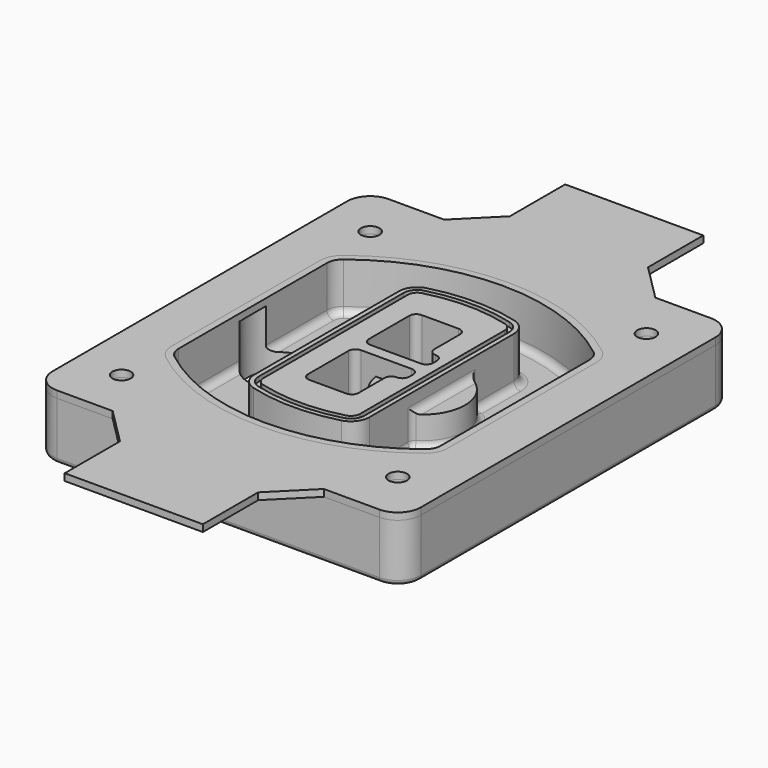
from build123d import *

# Parameters (mm, degrees)
F0_R      = 4
F1_DEPTH  = 25
F2_DEPTH  = 3
F3_DEPTH  = 18
F5_DEPTH  = 21
F6_DEPTH  = 2
F8_DEPTH  = 20
F9_DEPTH  = 16
F10_DEPTH = 25
F7_R      = 6
F7_R_2    = 4
F11_DEPTH = 6
F13_DEPTH = 9
F14_R     = 3
F15_R     = 2
F16_R     = 4
F17_DEPTH = 3


with BuildPart() as f1:
    # F0 (on Top) → F1 (new body)
    with BuildSketch(Plane.XY):
        with BuildLine():
            ThreePointArc((-80, -80), (-77.0710678119, -87.0710678119), (-70, -90))
            Line((-70, -90), (70, -90))
            ThreePointArc((70, -90), (77.0710678119, -87.0710678119), (80, -80))
            Line((80, -80), (80, 80))
            ThreePointArc((80, 80), (77.0710678119, 87.0710678119), (70, 90))
            Line((70, 90), (-70, 90))
            ThreePointArc((-70, 90), (-77.0710678119, 87.0710678119), (-80, 80))
            Line((-80, 80), (-80, -80))
        make_face()
        with Locations((-60, -67.5)):
            Circle(F0_R, mode=Mode.SUBTRACT)
        with Locations((60, -67.5)):
            Circle(F0_R, mode=Mode.SUBTRACT)
        with Locations((-60, 67.5)):
            Circle(F0_R, mode=Mode.SUBTRACT)
        with BuildLine():
            ThreePointArc((-64, 40.2934422872), (-62.5820384798, 46.4328484224), (-58.6153846154, 51.3286200352))
            ThreePointArc((-58.6153846154, 51.3286200352), (0, 71.5), (58.6153846154, 51.3286200352))
            ThreePointArc((58.6153846154, 51.3286200352), (62.5820384798, 46.4328484224), (64, 40.2934422872))
            Line((64, 40.2934422872), (64, -40.2934422872))
            ThreePointArc((64, -40.2934422872), (62.5820384798, -46.4328484224), (58.6153846154, -51.3286200352))
            ThreePointArc((58.6153846154, -51.3286200352), (0, -71.5), (-58.6153846154, -51.3286200352))
            ThreePointArc((-58.6153846154, -51.3286200352), (-62.5820384798, -46.4328484224), (-64, -40.2934422872))
            Line((-64, -40.2934422872), (-64, 40.2934422872))
        make_face(mode=Mode.SUBTRACT)
        with Locations((60, 67.5)):
            Circle(F0_R, mode=Mode.SUBTRACT)
        with BuildLine():
            ThreePointArc((58.6153846154, 51.3286200352), (0, 71.5), (-58.6153846154, 51.3286200352))
            ThreePointArc((-58.6153846154, 51.3286200352), (-62.5820384798, 46.4328484224), (-64, 40.2934422872))
            Line((-64, 40.2934422872), (-64, -40.2934422872))
            ThreePointArc((-64, -40.2934422872), (-62.5820384798, -46.4328484224), (-58.6153846154, -51.3286200352))
            ThreePointArc((-58.6153846154, -51.3286200352), (0, -71.5), (58.6153846154, -51.3286200352))
            ThreePointArc((58.6153846154, -51.3286200352), (62.5820384798, -46.4328484224), (64, -40.2934422872))
            Line((64, -40.2934422872), (64, 40.2934422872))
            ThreePointArc((64, 40.2934422872), (62.5820384798, 46.4328484224), (58.6153846154, 51.3286200352))
        make_face()
        with BuildLine():
            Line((-60, -40.2934422872), (-60, 40.2934422872))
            ThreePointArc((-60, 40.2934422872), (-58.9871703427, 44.6787323838), (-56.1538461538, 48.1757121072))
            ThreePointArc((-56.1538461538, 48.1757121072), (0, 67.5), (56.1538461538, 48.1757121072))
            ThreePointArc((56.1538461538, 48.1757121072), (58.9871703427, 44.6787323838), (60, 40.2934422872))
            Line((60, 40.2934422872), (60, -40.2934422872))
            ThreePointArc((60, -40.2934422872), (58.9871703427, -44.6787323838), (56.1538461538, -48.1757121072))
            ThreePointArc((56.1538461538, -48.1757121072), (0, -67.5), (-56.1538461538, -48.1757121072))
            ThreePointArc((-56.1538461538, -48.1757121072), (-58.9871703427, -44.6787323838), (-60, -40.2934422872))
        make_face(mode=Mode.SUBTRACT)
        with BuildLine():
            ThreePointArc((-56.1538461538, 48.1757121072), (-58.9871703427, 44.6787323838), (-60, 40.2934422872))
            Line((-60, 40.2934422872), (-60, -40.2934422872))
            ThreePointArc((-60, -40.2934422872), (-58.9871703427, -44.6787323838), (-56.1538461538, -48.1757121072))
            ThreePointArc((-56.1538461538, -48.1757121072), (0, -67.5), (56.1538461538, -48.1757121072))
            ThreePointArc((56.1538461538, -48.1757121072), (58.9871703427, -44.6787323838), (60, -40.2934422872))
            Line((60, -40.2934422872), (60, 40.2934422872))
            ThreePointArc((60, 40.2934422872), (58.9871703427, 44.6787323838), (56.1538461538, 48.1757121072))
            ThreePointArc((56.1538461538, 48.1757121072), (0, 67.5), (-56.1538461538, 48.1757121072))
        make_face()
        with BuildLine():
            ThreePointArc((54.3076923077, 45.8110311612), (56.2910192399, 43.3631453548), (57, 40.2934422872))
            Line((57, 40.2934422872), (57, -40.2934422872))
            ThreePointArc((57, -40.2934422872), (56.2910192399, -43.3631453548), (54.3076923077, -45.8110311612))
            ThreePointArc((54.3076923077, -45.8110311612), (0, -64.5), (-54.3076923077, -45.8110311612))
            ThreePointArc((-54.3076923077, -45.8110311612), (-56.2910192399, -43.3631453548), (-57, -40.2934422872))
            Line((-57, -40.2934422872), (-57, 40.2934422872))
            ThreePointArc((-57, 40.2934422872), (-56.2910192399, 43.3631453548), (-54.3076923077, 45.8110311612))
            ThreePointArc((-54.3076923077, 45.8110311612), (0, 64.5), (54.3076923077, 45.8110311612))
        make_face(mode=Mode.SUBTRACT)
        with BuildLine():
            Line((57, -40.2934422872), (57, 40.2934422872))
            ThreePointArc((57, 40.2934422872), (56.2910192399, 43.3631453548), (54.3076923077, 45.8110311612))
            ThreePointArc((54.3076923077, 45.8110311612), (0, 64.5), (-54.3076923077, 45.8110311612))
            ThreePointArc((-54.3076923077, 45.8110311612), (-56.2910192399, 43.3631453548), (-57, 40.2934422872))
            Line((-57, 40.2934422872), (-57, -40.2934422872))
            ThreePointArc((-57, -40.2934422872), (-56.2910192399, -43.3631453548), (-54.3076923077, -45.8110311612))
            ThreePointArc((-54.3076923077, -45.8110311612), (0, -64.5), (54.3076923077, -45.8110311612))
            ThreePointArc((54.3076923077, -45.8110311612), (56.2910192399, -43.3631453548), (57, -40.2934422872))
        make_face()
    extrude(amount=-F1_DEPTH)

    # F0 (on Top) → F2 (join)
    with BuildSketch(Plane.XY):
        with BuildLine():
            ThreePointArc((-56.1538461538, 48.1757121072), (-58.9871703427, 44.6787323838), (-60, 40.2934422872))
            Line((-60, 40.2934422872), (-60, -40.2934422872))
            ThreePointArc((-60, -40.2934422872), (-58.9871703427, -44.6787323838), (-56.1538461538, -48.1757121072))
            ThreePointArc((-56.1538461538, -48.1757121072), (0, -67.5), (56.1538461538, -48.1757121072))
            ThreePointArc((56.1538461538, -48.1757121072), (58.9871703427, -44.6787323838), (60, -40.2934422872))
            Line((60, -40.2934422872), (60, 40.2934422872))
            ThreePointArc((60, 40.2934422872), (58.9871703427, 44.6787323838), (56.1538461538, 48.1757121072))
            ThreePointArc((56.1538461538, 48.1757121072), (0, 67.5), (-56.1538461538, 48.1757121072))
        make_face()
        with BuildLine():
            ThreePointArc((54.3076923077, 45.8110311612), (56.2910192399, 43.3631453548), (57, 40.2934422872))
            Line((57, 40.2934422872), (57, -40.2934422872))
            ThreePointArc((57, -40.2934422872), (56.2910192399, -43.3631453548), (54.3076923077, -45.8110311612))
            ThreePointArc((54.3076923077, -45.8110311612), (0, -64.5), (-54.3076923077, -45.8110311612))
            ThreePointArc((-54.3076923077, -45.8110311612), (-56.2910192399, -43.3631453548), (-57, -40.2934422872))
            Line((-57, -40.2934422872), (-57, 40.2934422872))
            ThreePointArc((-57, 40.2934422872), (-56.2910192399, 43.3631453548), (-54.3076923077, 45.8110311612))
            ThreePointArc((-54.3076923077, 45.8110311612), (0, 64.5), (54.3076923077, 45.8110311612))
        make_face(mode=Mode.SUBTRACT)
    extrude(amount=F2_DEPTH)

    # F0 (on Top) → F3 (cut)
    with BuildSketch(Plane.XY):
        with BuildLine():
            Line((57, -40.2934422872), (57, 40.2934422872))
            ThreePointArc((57, 40.2934422872), (56.2910192399, 43.3631453548), (54.3076923077, 45.8110311612))
            ThreePointArc((54.3076923077, 45.8110311612), (0, 64.5), (-54.3076923077, 45.8110311612))
            ThreePointArc((-54.3076923077, 45.8110311612), (-56.2910192399, 43.3631453548), (-57, 40.2934422872))
            Line((-57, 40.2934422872), (-57, -40.2934422872))
            ThreePointArc((-57, -40.2934422872), (-56.2910192399, -43.3631453548), (-54.3076923077, -45.8110311612))
            ThreePointArc((-54.3076923077, -45.8110311612), (0, -64.5), (54.3076923077, -45.8110311612))
            ThreePointArc((54.3076923077, -45.8110311612), (56.2910192399, -43.3631453548), (57, -40.2934422872))
        make_face()
    extrude(amount=-F3_DEPTH, mode=Mode.SUBTRACT)

    # F4 (on face) → F5 (join, through all)
    with BuildSketch(Plane.XY.offset(3)):
        with BuildLine():
            ThreePointArc((-25, -39.2465276821), (-23.3511545998, -44.1109737193), (-19.0842911877, -46.9702398883))
            ThreePointArc((-19.0842911877, -46.9702398883), (0, -49.5), (19.0842911877, -46.9702398883))
            ThreePointArc((19.0842911877, -46.9702398883), (23.3511545998, -44.1109737193), (25, -39.2465276821))
            Line((25, -39.2465276821), (25, 39.2465276821))
            ThreePointArc((25, 39.2465276821), (23.3511545998, 44.1109737193), (19.0842911877, 46.9702398883))
            ThreePointArc((19.0842911877, 46.9702398883), (0, 49.5), (-19.0842911877, 46.9702398883))
            ThreePointArc((-19.0842911877, 46.9702398883), (-23.3511545998, 44.1109737193), (-25, 39.2465276821))
            Line((-25, 39.2465276821), (-25, -39.2465276821))
        make_face()
        with BuildLine():
            ThreePointArc((18.5632183908, 45.0393118368), (21.7633659499, 42.89486221), (23, 39.2465276821))
            Line((23, 39.2465276821), (23, -39.2465276821))
            ThreePointArc((23, -39.2465276821), (21.7633659499, -42.89486221), (18.5632183908, -45.0393118368))
            ThreePointArc((18.5632183908, -45.0393118368), (0, -47.5), (-18.5632183908, -45.0393118368))
            ThreePointArc((-18.5632183908, -45.0393118368), (-21.7633659499, -42.89486221), (-23, -39.2465276821))
            Line((-23, -39.2465276821), (-23, 39.2465276821))
            ThreePointArc((-23, 39.2465276821), (-21.7633659499, 42.89486221), (-18.5632183908, 45.0393118368))
            ThreePointArc((-18.5632183908, 45.0393118368), (0, 47.5), (18.5632183908, 45.0393118368))
        make_face(mode=Mode.SUBTRACT)
        with BuildLine():
            Line((23, -39.2465276821), (23, 39.2465276821))
            ThreePointArc((23, 39.2465276821), (21.7633659499, 42.89486221), (18.5632183908, 45.0393118368))
            ThreePointArc((18.5632183908, 45.0393118368), (0, 47.5), (-18.5632183908, 45.0393118368))
            ThreePointArc((-18.5632183908, 45.0393118368), (-21.7633659499, 42.89486221), (-23, 39.2465276821))
            Line((-23, 39.2465276821), (-23, -39.2465276821))
            ThreePointArc((-23, -39.2465276821), (-21.7633659499, -42.89486221), (-18.5632183908, -45.0393118368))
            ThreePointArc((-18.5632183908, -45.0393118368), (0, -47.5), (18.5632183908, -45.0393118368))
            ThreePointArc((18.5632183908, -45.0393118368), (21.7633659499, -42.89486221), (23, -39.2465276821))
        make_face()
        with BuildLine():
            ThreePointArc((18.0421455939, 43.1083837852), (20.1755772999, 41.6787507007), (21, 39.2465276821))
            Line((21, 39.2465276821), (21, -39.2465276821))
            ThreePointArc((21, -39.2465276821), (20.1755772999, -41.6787507007), (18.0421455939, -43.1083837852))
            ThreePointArc((18.0421455939, -43.1083837852), (0, -45.5), (-18.0421455939, -43.1083837852))
            ThreePointArc((-18.0421455939, -43.1083837852), (-20.1755772999, -41.6787507007), (-21, -39.2465276821))
            Line((-21, -39.2465276821), (-21, 39.2465276821))
            ThreePointArc((-21, 39.2465276821), (-20.1755772999, 41.6787507007), (-18.0421455939, 43.1083837852))
            ThreePointArc((-18.0421455939, 43.1083837852), (0, 45.5), (18.0421455939, 43.1083837852))
        make_face(mode=Mode.SUBTRACT)
        with BuildLine():
            Line((21, -39.2465276821), (21, 39.2465276821))
            ThreePointArc((21, 39.2465276821), (20.1755772999, 41.6787507007), (18.0421455939, 43.1083837852))
            ThreePointArc((18.0421455939, 43.1083837852), (0, 45.5), (-18.0421455939, 43.1083837852))
            ThreePointArc((-18.0421455939, 43.1083837852), (-20.1755772999, 41.6787507007), (-21, 39.2465276821))
            Line((-21, 39.2465276821), (-21, -39.2465276821))
            ThreePointArc((-21, -39.2465276821), (-20.1755772999, -41.6787507007), (-18.0421455939, -43.1083837852))
            ThreePointArc((-18.0421455939, -43.1083837852), (0, -45.5), (18.0421455939, -43.1083837852))
            ThreePointArc((18.0421455939, -43.1083837852), (20.1755772999, -41.6787507007), (21, -39.2465276821))
        make_face()
        with BuildLine():
            Line((-8, -2.5), (14, -2.5))
            ThreePointArc((14, -2.5), (16.1213203436, -3.3786796564), (17, -5.5))
            Line((17, -5.5), (17, -7.5))
            ThreePointArc((17, -7.5), (16.1213203436, -9.6213203436), (14, -10.5))
            ThreePointArc((14, -10.5), (11.8786796564, -11.3786796564), (11, -13.5))
            Line((11, -13.5), (11, -27.5))
            ThreePointArc((11, -27.5), (10.1213203436, -29.6213203436), (8, -30.5))
            Line((8, -30.5), (-8, -30.5))
            ThreePointArc((-8, -30.5), (-10.1213203436, -29.6213203436), (-11, -27.5))
            Line((-11, -27.5), (-11, -5.5))
            ThreePointArc((-11, -5.5), (-10.1213203436, -3.3786796564), (-8, -2.5))
        make_face(mode=Mode.SUBTRACT)
        with BuildLine():
            ThreePointArc((-8, 2.5), (-10.1213203436, 3.3786796564), (-11, 5.5))
            Line((-11, 5.5), (-11, 27.5))
            ThreePointArc((-11, 27.5), (-10.1213203436, 29.6213203436), (-8, 30.5))
            Line((-8, 30.5), (8, 30.5))
            ThreePointArc((8, 30.5), (10.1213203436, 29.6213203436), (11, 27.5))
            Line((11, 27.5), (11, 13.5))
            ThreePointArc((11, 13.5), (11.8786796564, 11.3786796564), (14, 10.5))
            ThreePointArc((14, 10.5), (16.1213203436, 9.6213203436), (17, 7.5))
            Line((17, 7.5), (17, 5.5))
            ThreePointArc((17, 5.5), (16.1213203436, 3.3786796564), (14, 2.5))
            Line((14, 2.5), (-8, 2.5))
        make_face(mode=Mode.SUBTRACT)
    extrude(amount=-F5_DEPTH)

    # F4 (on face) → F6 (cut)
    with BuildSketch(Plane.XY.offset(3)):
        with BuildLine():
            Line((23, -39.2465276821), (23, 39.2465276821))
            ThreePointArc((23, 39.2465276821), (21.7633659499, 42.89486221), (18.5632183908, 45.0393118368))
            ThreePointArc((18.5632183908, 45.0393118368), (0, 47.5), (-18.5632183908, 45.0393118368))
            ThreePointArc((-18.5632183908, 45.0393118368), (-21.7633659499, 42.89486221), (-23, 39.2465276821))
            Line((-23, 39.2465276821), (-23, -39.2465276821))
            ThreePointArc((-23, -39.2465276821), (-21.7633659499, -42.89486221), (-18.5632183908, -45.0393118368))
            ThreePointArc((-18.5632183908, -45.0393118368), (0, -47.5), (18.5632183908, -45.0393118368))
            ThreePointArc((18.5632183908, -45.0393118368), (21.7633659499, -42.89486221), (23, -39.2465276821))
        make_face()
        with BuildLine():
            ThreePointArc((18.0421455939, 43.1083837852), (20.1755772999, 41.6787507007), (21, 39.2465276821))
            Line((21, 39.2465276821), (21, -39.2465276821))
            ThreePointArc((21, -39.2465276821), (20.1755772999, -41.6787507007), (18.0421455939, -43.1083837852))
            ThreePointArc((18.0421455939, -43.1083837852), (0, -45.5), (-18.0421455939, -43.1083837852))
            ThreePointArc((-18.0421455939, -43.1083837852), (-20.1755772999, -41.6787507007), (-21, -39.2465276821))
            Line((-21, -39.2465276821), (-21, 39.2465276821))
            ThreePointArc((-21, 39.2465276821), (-20.1755772999, 41.6787507007), (-18.0421455939, 43.1083837852))
            ThreePointArc((-18.0421455939, 43.1083837852), (0, 45.5), (18.0421455939, 43.1083837852))
        make_face(mode=Mode.SUBTRACT)
    extrude(amount=-F6_DEPTH, mode=Mode.SUBTRACT)

    # F7 (on face) → F8 (join)
    with BuildSketch(Plane(origin=(0, 0, -25), x_dir=(1, 0, 0), z_dir=(0, 0, -1))):
        with BuildLine():
            ThreePointArc((3.28842436, 0), (16.7567035675, 13.4682792075), (30.224982775, 0))
            Line((30.224982775, 0), (35.224982775, 0))
            ThreePointArc((35.224982775, 0), (16.7567035675, 18.4682792075), (-1.71157564, 0))
            Line((-1.71157564, 0), (3.28842436, 0))
        make_face()
        with BuildLine():
            Line((3.28842436, 0), (30.224982775, 0))
            ThreePointArc((30.224982775, 0), (16.7567035675, 13.4682792075), (3.28842436, 0))
        make_face()
        with BuildLine():
            ThreePointArc((3.28842436, 0), (16.7567035675, -13.4682792075), (30.224982775, 0))
            Line((30.224982775, 0), (3.28842436, 0))
        make_face()
        with BuildLine():
            Line((35.224982775, 0), (30.224982775, 0))
            ThreePointArc((30.224982775, 0), (16.7567035675, -13.4682792075), (3.28842436, 0))
            Line((3.28842436, 0), (-1.71157564, 0))
            ThreePointArc((-1.71157564, 0), (16.7567035675, -18.4682792075), (35.224982775, 0))
        make_face()
    extrude(amount=-F8_DEPTH)

    # F7 (on face) → F9 (cut)
    with BuildSketch(Plane(origin=(0, 0, -25), x_dir=(1, 0, 0), z_dir=(0, 0, -1))):
        with BuildLine():
            Line((3.28842436, 0), (30.224982775, 0))
            ThreePointArc((30.224982775, 0), (16.7567035675, 13.4682792075), (3.28842436, 0))
        make_face()
        with BuildLine():
            ThreePointArc((3.28842436, 0), (16.7567035675, -13.4682792075), (30.224982775, 0))
            Line((30.224982775, 0), (3.28842436, 0))
        make_face()
    extrude(amount=-F9_DEPTH, mode=Mode.SUBTRACT)

    # F7 (on face) → F10 (cut)
    with BuildSketch(Plane(origin=(0, 0, -25), x_dir=(1, 0, 0), z_dir=(0, 0, -1))):
        with BuildLine():
            Line((-59.0318229325, 0), (-32.0952645175, 0))
            ThreePointArc((-32.0952645175, 0), (-45.563543725, 13.4682792075), (-59.0318229325, 0))
        make_face()
        with BuildLine():
            ThreePointArc((-59.0318229325, 0), (-45.563543725, -13.4682792075), (-32.0952645175, 0))
            Line((-32.0952645175, 0), (-59.0318229325, 0))
        make_face()
    extrude(amount=-F10_DEPTH, mode=Mode.SUBTRACT)

    # F7 (on face) → F11 (cut)
    with BuildSketch(Plane(origin=(0, 0, -25), x_dir=(1, 0, 0), z_dir=(0, 0, -1))):
        with Locations((60, -67.5)):
            Circle(F7_R)
        with Locations((60, -67.5)):
            Circle(F7_R_2, mode=Mode.SUBTRACT)
        with Locations((60, -67.5)):
            Circle(F7_R)
        with Locations((60, -67.5)):
            Circle(F7_R_2, mode=Mode.SUBTRACT)
        with Locations((-60, -67.5)):
            Circle(F7_R)
        with Locations((-60, -67.5)):
            Circle(F7_R_2, mode=Mode.SUBTRACT)
        with Locations((-60, -67.5)):
            Circle(F7_R)
        with Locations((-60, -67.5)):
            Circle(F7_R_2, mode=Mode.SUBTRACT)
        with Locations((-60, 67.5)):
            Circle(F7_R)
        with Locations((-60, 67.5)):
            Circle(F7_R_2, mode=Mode.SUBTRACT)
        with Locations((-60, 67.5)):
            Circle(F7_R)
        with Locations((-60, 67.5)):
            Circle(F7_R_2, mode=Mode.SUBTRACT)
        with Locations((60, 67.5)):
            Circle(F7_R)
        with Locations((60, 67.5)):
            Circle(F7_R_2, mode=Mode.SUBTRACT)
        with Locations((60, 67.5)):
            Circle(F7_R)
        with Locations((60, 67.5)):
            Circle(F7_R_2, mode=Mode.SUBTRACT)
    extrude(amount=-F11_DEPTH, mode=Mode.SUBTRACT)

    # F12 (on face) → F13 (cut, through all)
    with BuildSketch(Plane(origin=(0, 0, -9), x_dir=(1, 0, 0), z_dir=(0, 0, -1))):
        with BuildLine():
            Line((11, 13.5), (11, 17.5481537753))
            ThreePointArc((11, 17.5481537753), (2.5696536419, 11.8239143813), (-1.5415842455, 2.5))
            Line((-1.5415842455, 2.5), (3.5224848595, 2.5))
            ThreePointArc((3.5224848595, 2.5), (6.1857188154, 8.3455872281), (11.2536447004, 12.2927168648))
            ThreePointArc((11.2536447004, 12.2927168648), (11.0640958889, 12.8831798879), (11, 13.5))
        make_face()
        with BuildLine():
            ThreePointArc((11.2536447004, -12.2927168648), (6.1857188154, -8.3455872281), (3.5224848595, -2.5))
            Line((3.5224848595, -2.5), (-1.5415842455, -2.5))
            ThreePointArc((-1.5415842455, -2.5), (2.5696536419, -11.8239143813), (11, -17.5481537753))
            Line((11, -17.5481537753), (11, -13.5))
            ThreePointArc((11, -13.5), (11.0640958889, -12.8831798879), (11.2536447004, -12.2927168648))
        make_face()
        with BuildLine():
            ThreePointArc((11.2536447004, 12.2927168648), (6.1857188154, 8.3455872281), (3.5224848595, 2.5))
            Line((3.5224848595, 2.5), (14, 2.5))
            ThreePointArc((14, 2.5), (16.1213203436, 3.3786796564), (17, 5.5))
            Line((17, 5.5), (17, 7.5))
            ThreePointArc((17, 7.5), (16.1213203436, 9.6213203436), (14, 10.5))
            ThreePointArc((14, 10.5), (12.3601599782, 10.9878446101), (11.2536447004, 12.2927168648))
        make_face()
        with BuildLine():
            Line((14, -2.5), (3.5224848595, -2.5))
            ThreePointArc((3.5224848595, -2.5), (6.1857188154, -8.3455872281), (11.2536447004, -12.2927168648))
            ThreePointArc((11.2536447004, -12.2927168648), (12.3601599782, -10.9878446101), (14, -10.5))
            ThreePointArc((14, -10.5), (16.1213203436, -9.6213203436), (17, -7.5))
            Line((17, -7.5), (17, -5.5))
            ThreePointArc((17, -5.5), (16.1213203436, -3.3786796564), (14, -2.5))
        make_face()
    extrude(amount=F13_DEPTH, mode=Mode.SUBTRACT)

    # F14
    f14_edges = [f1.edges().sort_by_distance(p)[0] for p in [
        (-57, -23.703476, -18),
        (-57, 23.703476, -18),
        (25, 0, -5),
        (25, 16.526506, -11.5),
        (25, -16.526506, -11.5),
        (25, -27.886517, -18),
        (35.224983, 0, -18),
    ]]
    fillet(f14_edges, radius=F14_R)

    # F15
    f15_edges = [f1.edges().sort_by_distance(p)[0] for p in [
        (0, -90, -25),
    ]]
    fillet(f15_edges, radius=F15_R)


with BuildPart() as f17:
    # F16 (on face) → F17 (new body, through all)
    with BuildSketch(Plane.XY):
        with BuildLine():
            Line((45.8578643763, 90), (-45.8578643763, 90))
            Line((-45.8578643763, 90), (-70, 90))
            ThreePointArc((-70, 90), (-77.0710678119, 87.0710678119), (-80, 80))
            Line((-80, 80), (-80, -80))
            ThreePointArc((-80, -80), (-77.0710678119, -87.0710678119), (-70, -90))
            Line((-70, -90), (-45.8578643763, -90))
            Line((-45.8578643763, -90), (45.8578643763, -90))
            Line((45.8578643763, -90), (70, -90))
            ThreePointArc((70, -90), (77.0710678119, -87.0710678119), (80, -80))
            Line((80, -80), (80, 80))
            ThreePointArc((80, 80), (77.0710678119, 87.0710678119), (70, 90))
            Line((70, 90), (45.8578643763, 90))
        make_face()
        with Locations((-60, -67.5)):
            Circle(F16_R, mode=Mode.SUBTRACT)
        with Locations((60, -67.5)):
            Circle(F16_R, mode=Mode.SUBTRACT)
        with Locations((-60, 67.5)):
            Circle(F16_R, mode=Mode.SUBTRACT)
        with BuildLine():
            ThreePointArc((-60, 40.2934422872), (-58.9871703427, 44.6787323838), (-56.1538461538, 48.1757121072))
            ThreePointArc((-56.1538461538, 48.1757121072), (0, 67.5), (56.1538461538, 48.1757121072))
            ThreePointArc((56.1538461538, 48.1757121072), (58.9871703427, 44.6787323838), (60, 40.2934422872))
            Line((60, 40.2934422872), (60, -40.2934422872))
            ThreePointArc((60, -40.2934422872), (58.9871703427, -44.6787323838), (56.1538461538, -48.1757121072))
            ThreePointArc((56.1538461538, -48.1757121072), (0, -67.5), (-56.1538461538, -48.1757121072))
            ThreePointArc((-56.1538461538, -48.1757121072), (-58.9871703427, -44.6787323838), (-60, -40.2934422872))
            Line((-60, -40.2934422872), (-60, 40.2934422872))
        make_face(mode=Mode.SUBTRACT)
        with Locations((60, 67.5)):
            Circle(F16_R, mode=Mode.SUBTRACT)
        Polygon((45.8578643763, -90), (-45.8578643763, -90), (-30, -105.8578643763), (-30, -135.8578643763), (0, -135.8578643763), (30, -135.8578643763), (30, -105.8578643763), align=None)
        Polygon((-30, 105.8578643763), (-45.8578643763, 90), (45.8578643763, 90), (30, 105.8578643763), (30, 135.8578643763), (0, 135.8578643763), (-30, 135.8578643763), align=None)
    extrude(amount=F17_DEPTH)


solid = Compound([f1.part, f17.part])
